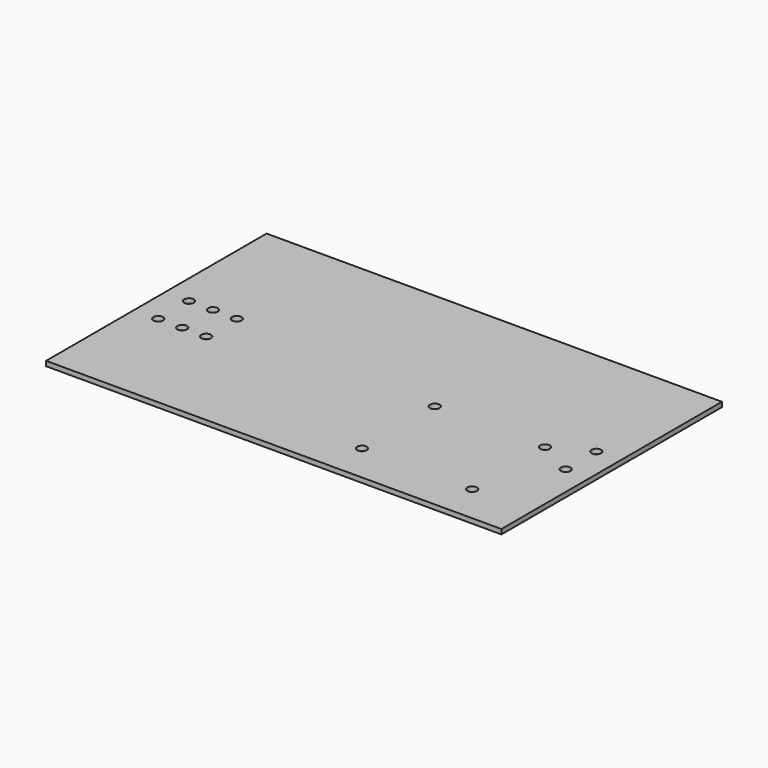
from build123d import *

# Parameters (mm, degrees)
F0_W     = 241.3
F0_H     = 146.05
F0_R     = 2.54
F1_DEPTH = 2.54


with BuildPart() as f1:
    # F0 (on Top) → F1 (new body)
    with BuildSketch(Plane.XY):
        Rectangle(F0_W, F0_H)
        with Locations((-107.95, -14.605)):
            Circle(F0_R, mode=Mode.SUBTRACT)
        with Locations((-95.25, -14.605)):
            Circle(F0_R, mode=Mode.SUBTRACT)
        with Locations((-82.55, -14.605)):
            Circle(F0_R, mode=Mode.SUBTRACT)
        with Locations((30.48, -52.705)):
            Circle(F0_R, mode=Mode.SUBTRACT)
        with Locations((88.9, -52.705)):
            Circle(F0_R, mode=Mode.SUBTRACT)
        with Locations((30.48, -4.445)):
            Circle(F0_R, mode=Mode.SUBTRACT)
        with Locations((88.9, -4.445)):
            Circle(F0_R, mode=Mode.SUBTRACT)
        with Locations((107.95, -14.605)):
            Circle(F0_R, mode=Mode.SUBTRACT)
        with Locations((-107.95, 5.715)):
            Circle(F0_R, mode=Mode.SUBTRACT)
        with Locations((-95.25, 5.715)):
            Circle(F0_R, mode=Mode.SUBTRACT)
        with Locations((-82.55, 5.715)):
            Circle(F0_R, mode=Mode.SUBTRACT)
        with Locations((107.95, 5.715)):
            Circle(F0_R, mode=Mode.SUBTRACT)
    extrude(amount=F1_DEPTH)


solid = f1.part
